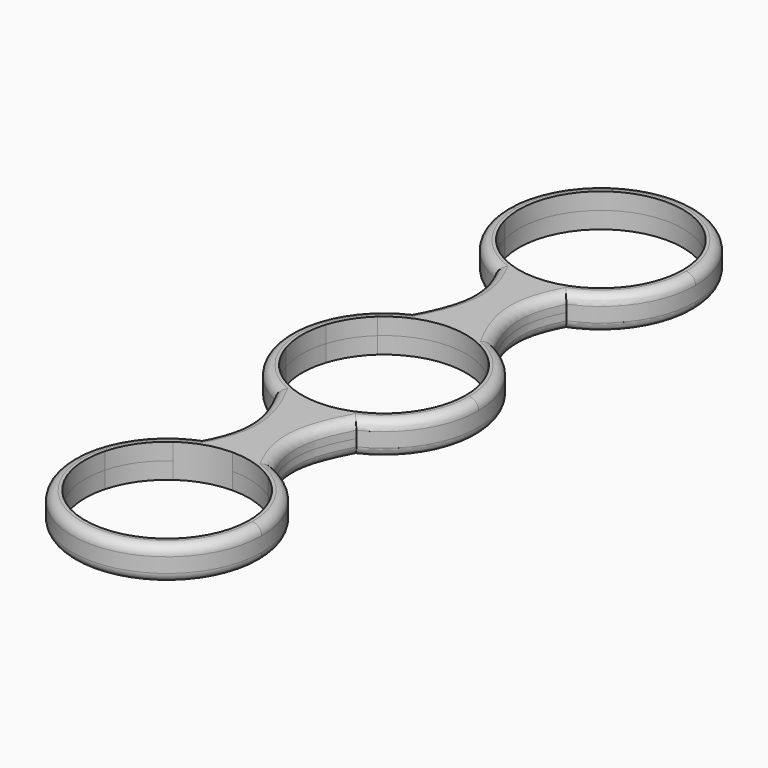
from build123d import *

# Parameters (mm, degrees)
F1_DEPTH = 2.25
F2_R     = 1.27


with BuildPart() as f1:
    # F0 (on Top) → F1 (new body, symmetric)
    with BuildSketch(Plane.XY):
        with BuildLine():
            add(Edge.make_bspline(
                [(10.4820696972, 3.3355981266), (11.1724577582, 2.2913133628), (11.9117678591, 1.1823482114), (12.7, 0)],
                knots=[34.1408149662, 34.1408149662, 34.1408149662, 34.1408149662, 36.4, 36.4, 36.4, 36.4], degree=3))
            ThreePointArc((12.7, 0), (10.7380872388, 6.7811121841), (5.4585067004, 11.4671140485))
            add(Edge.make_bspline(
                [(5.4585067004, 11.4671140485), (6.0002771274, 10.4479425649), (6.6384503356, 9.3546754559), (7.373026325, 8.1632397252)],
                knots=[27.1112789979, 27.1112789979, 27.1112789979, 27.1112789979, 30.2826299474, 30.2826299474, 30.2826299474, 30.2826299474], degree=3))
            ThreePointArc((7.373026325, 8.1632397252), (9.2481157185, 5.9558673305), (10.4820696972, 3.3355981266))
        make_face()
        with BuildLine():
            add(Edge.make_bspline(
                [(12.7, 0), (11.9117678591, -1.1823482114), (11.1724577582, -2.2913133628), (10.4820696972, -3.3355981266)],
                knots=[0, 0, 0, 0, 2.2591850338, 2.2591850338, 2.2591850338, 2.2591850338], degree=3))
            add(Edge.make_bspline(
                [(10.4820696972, 3.3355981266), (11.1724577582, 2.2913133628), (11.9117678591, 1.1823482114), (12.7, 0)],
                knots=[34.1408149662, 34.1408149662, 34.1408149662, 34.1408149662, 36.4, 36.4, 36.4, 36.4], degree=3))
            ThreePointArc((10.4820696972, 3.3355981266), (10.8697462406, 1.6877845435), (11, 0))
            ThreePointArc((11, 0), (10.8697462406, -1.6877845435), (10.4820696972, -3.3355981266))
        make_face()
        with BuildLine():
            ThreePointArc((5.4585067004, -11.4671140485), (10.7380872388, -6.7811121841), (12.7, 0))
            add(Edge.make_bspline(
                [(12.7, 0), (11.9117678591, -1.1823482114), (11.1724577582, -2.2913133628), (10.4820696972, -3.3355981266)],
                knots=[0, 0, 0, 0, 2.2591850338, 2.2591850338, 2.2591850338, 2.2591850338], degree=3))
            ThreePointArc((10.4820696972, -3.3355981266), (9.2481157185, -5.9558673305), (7.373026325, -8.1632397252))
            add(Edge.make_bspline(
                [(7.373026325, -8.1632397252), (6.6384503356, -9.3546754559), (6.0002771274, -10.4479425649), (5.4585067004, -11.4671140485)],
                knots=[6.1173700526, 6.1173700526, 6.1173700526, 6.1173700526, 9.2887210021, 9.2887210021, 9.2887210021, 9.2887210021], degree=3))
        make_face()
        with BuildLine():
            add(Edge.make_bspline(
                [(5.4585067004, 11.4671140485), (6.0002771274, 10.4479425649), (6.6384503356, 9.3546754559), (7.373026325, 8.1632397252)],
                knots=[27.1112789979, 27.1112789979, 27.1112789979, 27.1112789979, 30.2826299474, 30.2826299474, 30.2826299474, 30.2826299474], degree=3))
            ThreePointArc((5.4585067004, 11.4671140485), (2.7980038942, 12.3879447128), (0, 12.7))
            ThreePointArc((0, 12.7), (-2.7980038942, 12.3879447128), (-5.4585067004, 11.4671140485))
            add(Edge.make_bspline(
                [(-5.4585067004, 11.4671140485), (-6.0002771274, 10.4479425649), (-6.6384503356, 9.3546754559), (-7.373026325, 8.1632397252)],
                knots=[27.1112789979, 27.1112789979, 27.1112789979, 27.1112789979, 30.2826299474, 30.2826299474, 30.2826299474, 30.2826299474], degree=3))
            ThreePointArc((-7.373026325, 8.1632397252), (0, 11), (7.373026325, 8.1632397252))
        make_face()
        with BuildLine():
            ThreePointArc((0, 12.7), (2.7980038942, 12.3879447128), (5.4585067004, 11.4671140485))
            add(Edge.make_bspline(
                [(4.7709871014, 24.630221664), (2.4343000068, 20.0109432457), (2.6634732064, 16.7250947181), (5.4585067004, 11.4671140485)],
                knots=[10.7500461171, 10.7500461171, 10.7500461171, 10.7500461171, 27.1112789979, 27.1112789979, 27.1112789979, 27.1112789979], degree=3))
            ThreePointArc((4.7709871014, 24.630221664), (2.4304130444, 23.9347245344), (0, 23.7))
            Line((0, 23.7), (0, 12.7))
        make_face()
        with BuildLine():
            add(Edge.make_bspline(
                [(5.4585067004, -11.4671140485), (2.6634732064, -16.7250947181), (2.4343000068, -20.0109432457), (4.7709871014, -24.630221664)],
                knots=[9.2887210021, 9.2887210021, 9.2887210021, 9.2887210021, 25.6499538829, 25.6499538829, 25.6499538829, 25.6499538829], degree=3))
            ThreePointArc((5.4585067004, -11.4671140485), (2.7980038942, -12.3879447128), (0, -12.7))
            Line((0, -12.7), (0, -23.7))
            ThreePointArc((0, -23.7), (2.4304130444, -23.9347245344), (4.7709871014, -24.630221664))
        make_face()
        with BuildLine():
            ThreePointArc((0, -12.7), (2.7980038942, -12.3879447128), (5.4585067004, -11.4671140485))
            add(Edge.make_bspline(
                [(7.373026325, -8.1632397252), (6.6384503356, -9.3546754559), (6.0002771274, -10.4479425649), (5.4585067004, -11.4671140485)],
                knots=[6.1173700526, 6.1173700526, 6.1173700526, 6.1173700526, 9.2887210021, 9.2887210021, 9.2887210021, 9.2887210021], degree=3))
            ThreePointArc((7.373026325, -8.1632397252), (0, -11), (-7.373026325, -8.1632397252))
            add(Edge.make_bspline(
                [(-7.373026325, -8.1632397252), (-6.6384503356, -9.3546754559), (-6.0002771274, -10.4479425649), (-5.4585067004, -11.4671140485)],
                knots=[6.1173700526, 6.1173700526, 6.1173700526, 6.1173700526, 9.2887210021, 9.2887210021, 9.2887210021, 9.2887210021], degree=3))
            ThreePointArc((-5.4585067004, -11.4671140485), (-2.7980038942, -12.3879447128), (0, -12.7))
        make_face()
        with BuildLine():
            ThreePointArc((-5.4585067004, 11.4671140485), (-2.7980038942, 12.3879447128), (0, 12.7))
            Line((0, 12.7), (0, 23.7))
            ThreePointArc((0, 23.7), (-2.4304130444, 23.9347245344), (-4.7709871014, 24.630221664))
            add(Edge.make_bspline(
                [(-4.7709871014, 24.630221664), (-2.4343000068, 20.0109432457), (-2.6634732064, 16.7250947181), (-5.4585067004, 11.4671140485)],
                knots=[10.7500461171, 10.7500461171, 10.7500461171, 10.7500461171, 27.1112789979, 27.1112789979, 27.1112789979, 27.1112789979], degree=3))
        make_face()
        with BuildLine():
            add(Edge.make_bspline(
                [(6.3916780741, 27.4475449514), (5.7577486297, 26.4443652166), (5.2175183055, 25.5129465949), (4.7709871014, 24.630221664)],
                knots=[7.6234824298, 7.6234824298, 7.6234824298, 7.6234824298, 10.7500461171, 10.7500461171, 10.7500461171, 10.7500461171], degree=3))
            ThreePointArc((4.7709871014, 24.630221664), (10.5328423559, 29.3042807337), (12.7, 36.4))
            add(Edge.make_bspline(
                [(12.7, 36.4), (11.9668455087, 35.3984070533), (11.2760150732, 34.4546347654), (10.6275086935, 33.5616802558)],
                knots=[0, 0, 0, 0, 2.1013246836, 2.1013246836, 2.1013246836, 2.1013246836], degree=3))
            ThreePointArc((10.6275086935, 33.5616802558), (9.0420596209, 30.1357236801), (6.3916780741, 27.4475449514))
        make_face()
        with BuildLine():
            ThreePointArc((0, 23.7), (2.4304130444, 23.9347245344), (4.7709871014, 24.630221664))
            add(Edge.make_bspline(
                [(6.3916780741, 27.4475449514), (5.7577486297, 26.4443652166), (5.2175183055, 25.5129465949), (4.7709871014, 24.630221664)],
                knots=[7.6234824298, 7.6234824298, 7.6234824298, 7.6234824298, 10.7500461171, 10.7500461171, 10.7500461171, 10.7500461171], degree=3))
            ThreePointArc((6.3916780741, 27.4475449514), (3.3558154349, 25.9243853275), (0, 25.4))
            Line((0, 25.4), (0, 23.7))
        make_face()
        with BuildLine():
            Line((0, -23.7), (0, -12.7))
            ThreePointArc((0, -12.7), (-2.7980038942, -12.3879447128), (-5.4585067004, -11.4671140485))
            add(Edge.make_bspline(
                [(-5.4585067004, -11.4671140485), (-2.6634732064, -16.7250947181), (-2.4343000068, -20.0109432457), (-4.7709871014, -24.630221664)],
                knots=[9.2887210021, 9.2887210021, 9.2887210021, 9.2887210021, 25.6499538829, 25.6499538829, 25.6499538829, 25.6499538829], degree=3))
            ThreePointArc((-4.7709871014, -24.630221664), (-2.4304130444, -23.9347245344), (0, -23.7))
        make_face()
        with BuildLine():
            add(Edge.make_bspline(
                [(4.7709871014, -24.630221664), (5.2175183055, -25.5129465949), (5.7577486297, -26.4443652166), (6.3916780741, -27.4475449514)],
                knots=[25.6499538829, 25.6499538829, 25.6499538829, 25.6499538829, 28.7765175702, 28.7765175702, 28.7765175702, 28.7765175702], degree=3))
            ThreePointArc((4.7709871014, -24.630221664), (2.4304130444, -23.9347245344), (0, -23.7))
            Line((0, -23.7), (0, -25.4))
            ThreePointArc((0, -25.4), (3.3558154349, -25.9243853275), (6.3916780741, -27.4475449514))
        make_face()
        with BuildLine():
            ThreePointArc((12.7, -36.4), (10.5328423559, -29.3042807337), (4.7709871014, -24.630221664))
            add(Edge.make_bspline(
                [(4.7709871014, -24.630221664), (5.2175183055, -25.5129465949), (5.7577486297, -26.4443652166), (6.3916780741, -27.4475449514)],
                knots=[25.6499538829, 25.6499538829, 25.6499538829, 25.6499538829, 28.7765175702, 28.7765175702, 28.7765175702, 28.7765175702], degree=3))
            ThreePointArc((6.3916780741, -27.4475449514), (9.0420596209, -30.1357236801), (10.6275086935, -33.5616802558))
            add(Edge.make_bspline(
                [(10.6275086935, -33.5616802558), (11.2760150732, -34.4546347654), (11.9668455087, -35.3984070533), (12.7, -36.4)],
                knots=[34.2986753164, 34.2986753164, 34.2986753164, 34.2986753164, 36.4, 36.4, 36.4, 36.4], degree=3))
        make_face()
        with BuildLine():
            add(Edge.make_bspline(
                [(-5.4585067004, 11.4671140485), (-6.0002771274, 10.4479425649), (-6.6384503356, 9.3546754559), (-7.373026325, 8.1632397252)],
                knots=[27.1112789979, 27.1112789979, 27.1112789979, 27.1112789979, 30.2826299474, 30.2826299474, 30.2826299474, 30.2826299474], degree=3))
            ThreePointArc((-5.4585067004, 11.4671140485), (-10.7380872388, 6.7811121841), (-12.7, 0))
            add(Edge.make_bspline(
                [(-10.4820696972, 3.3355981266), (-11.1724577582, 2.2913133628), (-11.9117678591, 1.1823482114), (-12.7, 0)],
                knots=[34.1408149662, 34.1408149662, 34.1408149662, 34.1408149662, 36.4, 36.4, 36.4, 36.4], degree=3))
            ThreePointArc((-10.4820696972, 3.3355981266), (-9.2481157185, 5.9558673305), (-7.373026325, 8.1632397252))
        make_face()
        with BuildLine():
            ThreePointArc((-4.7709871014, 24.630221664), (-2.4304130444, 23.9347245344), (0, 23.7))
            Line((0, 23.7), (0, 25.4))
            ThreePointArc((0, 25.4), (-3.3558154349, 25.9243853275), (-6.3916780741, 27.4475449514))
            add(Edge.make_bspline(
                [(-6.3916780741, 27.4475449514), (-5.7577486297, 26.4443652166), (-5.2175183055, 25.5129465949), (-4.7709871014, 24.630221664)],
                knots=[7.6234824298, 7.6234824298, 7.6234824298, 7.6234824298, 10.7500461171, 10.7500461171, 10.7500461171, 10.7500461171], degree=3))
        make_face()
        with BuildLine():
            add(Edge.make_bspline(
                [(12.7, 36.4), (11.9668455087, 35.3984070533), (11.2760150732, 34.4546347654), (10.6275086935, 33.5616802558)],
                knots=[0, 0, 0, 0, 2.1013246836, 2.1013246836, 2.1013246836, 2.1013246836], degree=3))
            ThreePointArc((12.7, 36.4), (0, 49.1), (-12.7, 36.4))
            add(Edge.make_bspline(
                [(-12.7, 36.4), (-11.9668455087, 35.3984070533), (-11.2760150732, 34.4546347654), (-10.6275086935, 33.5616802558)],
                knots=[0, 0, 0, 0, 2.1013246836, 2.1013246836, 2.1013246836, 2.1013246836], degree=3))
            ThreePointArc((-10.6275086935, 33.5616802558), (-1.4313288183, 47.3064796252), (11, 36.4))
            ThreePointArc((11, 36.4), (10.9064796252, 34.9686711817), (10.6275086935, 33.5616802558))
        make_face()
        with BuildLine():
            ThreePointArc((-12.7, 0), (-10.7380872388, -6.7811121841), (-5.4585067004, -11.4671140485))
            add(Edge.make_bspline(
                [(-7.373026325, -8.1632397252), (-6.6384503356, -9.3546754559), (-6.0002771274, -10.4479425649), (-5.4585067004, -11.4671140485)],
                knots=[6.1173700526, 6.1173700526, 6.1173700526, 6.1173700526, 9.2887210021, 9.2887210021, 9.2887210021, 9.2887210021], degree=3))
            ThreePointArc((-7.373026325, -8.1632397252), (-9.2481157185, -5.9558673305), (-10.4820696972, -3.3355981266))
            add(Edge.make_bspline(
                [(-12.7, 0), (-11.9117678591, -1.1823482114), (-11.1724577582, -2.2913133628), (-10.4820696972, -3.3355981266)],
                knots=[0, 0, 0, 0, 2.2591850338, 2.2591850338, 2.2591850338, 2.2591850338], degree=3))
        make_face()
        with BuildLine():
            Line((0, -25.4), (0, -23.7))
            ThreePointArc((0, -23.7), (-2.4304130444, -23.9347245344), (-4.7709871014, -24.630221664))
            add(Edge.make_bspline(
                [(-4.7709871014, -24.630221664), (-5.2175183055, -25.5129465949), (-5.7577486297, -26.4443652166), (-6.3916780741, -27.4475449514)],
                knots=[25.6499538829, 25.6499538829, 25.6499538829, 25.6499538829, 28.7765175702, 28.7765175702, 28.7765175702, 28.7765175702], degree=3))
            ThreePointArc((-6.3916780741, -27.4475449514), (-3.3558154349, -25.9243853275), (0, -25.4))
        make_face()
        with BuildLine():
            ThreePointArc((-12.7, -36.4), (0, -49.1), (12.7, -36.4))
            add(Edge.make_bspline(
                [(10.6275086935, -33.5616802558), (11.2760150732, -34.4546347654), (11.9668455087, -35.3984070533), (12.7, -36.4)],
                knots=[34.2986753164, 34.2986753164, 34.2986753164, 34.2986753164, 36.4, 36.4, 36.4, 36.4], degree=3))
            ThreePointArc((10.6275086935, -33.5616802558), (10.9064796252, -34.9686711817), (11, -36.4))
            ThreePointArc((11, -36.4), (-1.4313288183, -47.3064796252), (-10.6275086935, -33.5616802558))
            add(Edge.make_bspline(
                [(-10.6275086935, -33.5616802558), (-11.2760150732, -34.4546347654), (-11.9668455087, -35.3984070533), (-12.7, -36.4)],
                knots=[34.2986753164, 34.2986753164, 34.2986753164, 34.2986753164, 36.4, 36.4, 36.4, 36.4], degree=3))
        make_face()
        with BuildLine():
            add(Edge.make_bspline(
                [(-10.4820696972, 3.3355981266), (-11.1724577582, 2.2913133628), (-11.9117678591, 1.1823482114), (-12.7, 0)],
                knots=[34.1408149662, 34.1408149662, 34.1408149662, 34.1408149662, 36.4, 36.4, 36.4, 36.4], degree=3))
            add(Edge.make_bspline(
                [(-12.7, 0), (-11.9117678591, -1.1823482114), (-11.1724577582, -2.2913133628), (-10.4820696972, -3.3355981266)],
                knots=[0, 0, 0, 0, 2.2591850338, 2.2591850338, 2.2591850338, 2.2591850338], degree=3))
            ThreePointArc((-10.4820696972, -3.3355981266), (-11, 0), (-10.4820696972, 3.3355981266))
        make_face()
        with BuildLine():
            ThreePointArc((-12.7, 36.4), (-10.5328423559, 29.3042807337), (-4.7709871014, 24.630221664))
            add(Edge.make_bspline(
                [(-6.3916780741, 27.4475449514), (-5.7577486297, 26.4443652166), (-5.2175183055, 25.5129465949), (-4.7709871014, 24.630221664)],
                knots=[7.6234824298, 7.6234824298, 7.6234824298, 7.6234824298, 10.7500461171, 10.7500461171, 10.7500461171, 10.7500461171], degree=3))
            ThreePointArc((-6.3916780741, 27.4475449514), (-9.0420596209, 30.1357236801), (-10.6275086935, 33.5616802558))
            add(Edge.make_bspline(
                [(-12.7, 36.4), (-11.9668455087, 35.3984070533), (-11.2760150732, 34.4546347654), (-10.6275086935, 33.5616802558)],
                knots=[0, 0, 0, 0, 2.1013246836, 2.1013246836, 2.1013246836, 2.1013246836], degree=3))
        make_face()
        with BuildLine():
            add(Edge.make_bspline(
                [(-4.7709871014, -24.630221664), (-5.2175183055, -25.5129465949), (-5.7577486297, -26.4443652166), (-6.3916780741, -27.4475449514)],
                knots=[25.6499538829, 25.6499538829, 25.6499538829, 25.6499538829, 28.7765175702, 28.7765175702, 28.7765175702, 28.7765175702], degree=3))
            ThreePointArc((-4.7709871014, -24.630221664), (-10.5328423559, -29.3042807337), (-12.7, -36.4))
            add(Edge.make_bspline(
                [(-10.6275086935, -33.5616802558), (-11.2760150732, -34.4546347654), (-11.9668455087, -35.3984070533), (-12.7, -36.4)],
                knots=[34.2986753164, 34.2986753164, 34.2986753164, 34.2986753164, 36.4, 36.4, 36.4, 36.4], degree=3))
            ThreePointArc((-10.6275086935, -33.5616802558), (-9.0420596209, -30.1357236801), (-6.3916780741, -27.4475449514))
        make_face()
    extrude(amount=F1_DEPTH, both=True)

    # F2
    f2_edges = [f1.edges().sort_by_distance(p)[0] for p in [
        (-3.212771, 17.97427, 2.25),
        (3.212771, -17.97427, 2.25),
        (3.212771, 17.97427, 2.25),
        (-3.212771, -17.974269, 2.25),
        (0, 49.1, 2.25),
        (0, -49.1, 2.25),
        (-12.7, 0, 2.25),
        (12.7, 0, 2.25),
        (0, -49.1, -2.25),
        (3.212771, -17.97427, -2.25),
        (12.7, 0, -2.25),
        (0, 49.1, -2.25),
        (-12.7, 0, -2.25),
        (-3.212771, 17.97427, -2.25),
        (-3.212771, -17.974269, -2.25),
        (3.212771, 17.97427, -2.25),
    ]]
    fillet(f2_edges, radius=F2_R)


solid = f1.part
